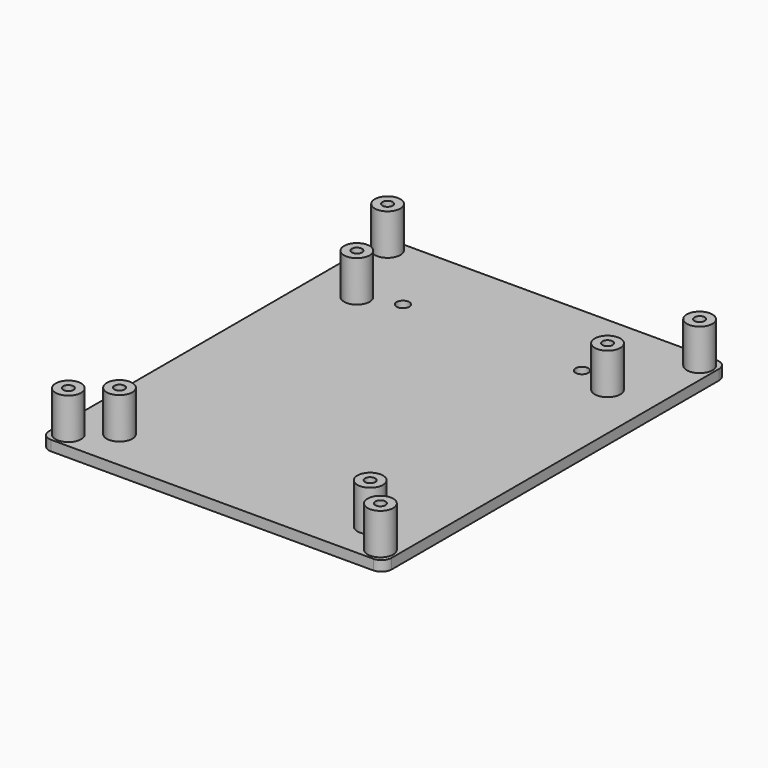
from build123d import *

# Parameters (mm, degrees)
SKETCH032_W     = 67
SKETCH032_H     = 84
PAD014_DEPTH    = 2
SKETCH033_R     = 1.25
POCKET_DEPTH    = 2.001
SKETCH034_R     = 2.5
PAD015_DEPTH    = 8
SKETCH035_R     = 2.5
PAD016_DEPTH    = 8
SKETCH036_R     = 1
POCKET009_DEPTH = 6
FILLET_R        = 2


with BuildPart() as part:
    # Sketch032 → Pad014 (new body)
    with BuildSketch(Plane.XY):
        with Locations((0, 10)):
            Rectangle(SKETCH032_W, SKETCH032_H)
    extrude(amount=PAD014_DEPTH)

    # Sketch033 (on Face6 of Pad014) → Pocket (cut, through all)
    with BuildSketch(Plane.XY.offset(2)):
        with Locations((-17.5, 36.5)):
            Circle(SKETCH033_R)
        with Locations((17.5, 36.5)):
            Circle(SKETCH033_R)
    extrude(amount=-POCKET_DEPTH, mode=Mode.SUBTRACT)

    # Sketch034 (on Face5 of Pocket) → Pad015 (join)
    with BuildSketch(Plane.XY.offset(2)):
        with Locations((-30.5, 49)):
            Circle(SKETCH034_R)
        with Locations((-30.5, -29)):
            Circle(SKETCH034_R)
        with Locations((30.5, 49)):
            Circle(SKETCH034_R)
        with Locations((30.5, -29)):
            Circle(SKETCH034_R)
    extrude(amount=PAD015_DEPTH)

    # Sketch035 (on Face5 of Pad015) → Pad016 (join)
    with BuildSketch(Plane.XY.offset(2)):
        with Locations((-24.5, 34)):
            Circle(SKETCH035_R)
        with Locations((24.5, 34)):
            Circle(SKETCH035_R)
        with Locations((-24.5, -24)):
            Circle(SKETCH035_R)
        with Locations((24.5, -24)):
            Circle(SKETCH035_R)
    extrude(amount=PAD016_DEPTH)

    # Sketch036 (on Face19 of Pad016) → Pocket009 (cut)
    with BuildSketch(Plane.XY.offset(10)):
        with Locations((-30.5, 49)):
            Circle(SKETCH036_R)
        with Locations((-24.5, 34)):
            Circle(SKETCH036_R)
        with Locations((30.5, 49)):
            Circle(SKETCH036_R)
        with Locations((24.5, 34)):
            Circle(SKETCH036_R)
        with Locations((30.5, -29)):
            Circle(SKETCH036_R)
        with Locations((24.5, -24)):
            Circle(SKETCH036_R)
        with Locations((-24.5, -24)):
            Circle(SKETCH036_R)
        with Locations((-30.5, -29)):
            Circle(SKETCH036_R)
    extrude(amount=-POCKET009_DEPTH, mode=Mode.SUBTRACT)

    # Fillet
    fillet_edges = [part.edges().sort_by_distance(p)[0] for p in [
        (-33.5, -32, 1),
        (33.5, -32, 1),
        (-33.5, 52, 1),
        (33.5, 52, 1),
    ]]
    fillet(fillet_edges, radius=FILLET_R)


with BuildPart() as part_1:
    # Body011 placement: moved
    add(part.part.moved(Location((0, 0, 3))))


solid = part_1.part
